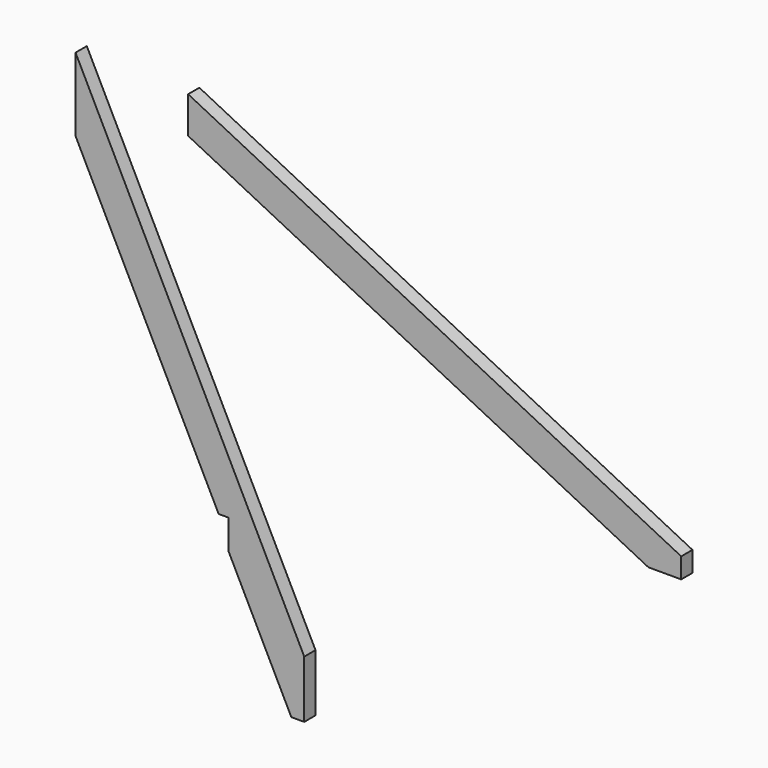
from build123d import *

# Parameters (mm, degrees)
F1_DEPTH = 38.1
F2_DEPTH = 38.1


with BuildPart() as f1:
    # F0 (on Front) → F1 (new body)
    with BuildSketch(Plane.XZ):
        Polygon((619.07778, -1238.155561), (0, 0), (0, -198.786443), (387.396179, -973.578801), (413.7644, -973.578801), (413.7644, -1052.953801), (584.15278, -1393.730561), (619.07778, -1393.730561), align=None)
    extrude(amount=F1_DEPTH)


with BuildPart() as f2:
    # F0 (on Front) → F2 (new body)
    with BuildSketch(Plane.XZ):
        Polygon((1639.508976, -667.354488), (304.8, 0), (304.8, -99.393222), (1550.608976, -722.297709), (1639.508976, -722.297709), align=None)
    extrude(amount=F2_DEPTH)


solid = Compound([f1.part, f2.part])
